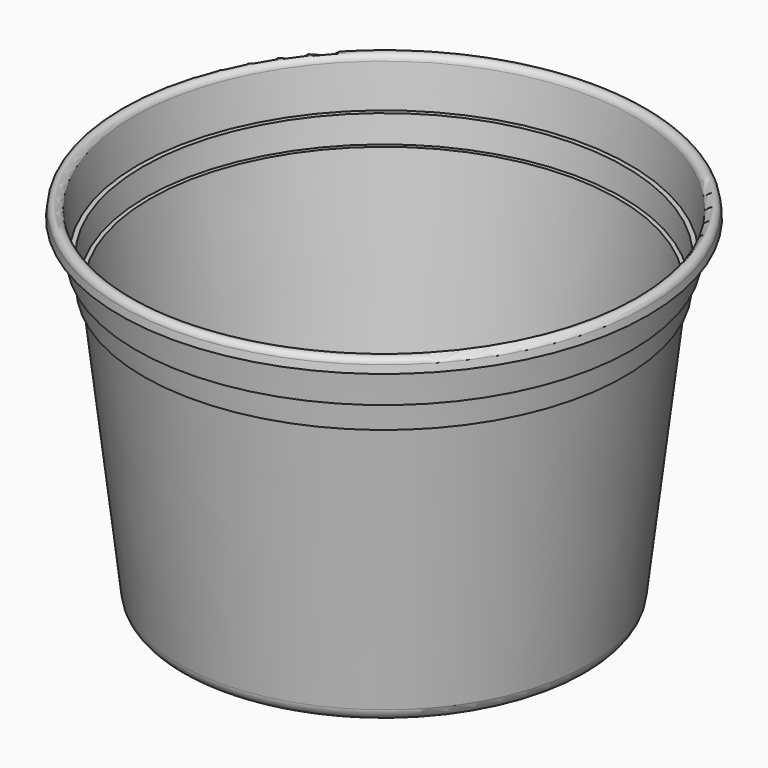
from build123d import *


with BuildPart() as f1:
    # F0 (on Front) → F1 (revolve)
    with BuildSketch(Plane.XZ):
        with BuildLine():
            Line((-41.397297, 0), (0, 0))
            Line((0, 0), (0, 0.5334))
            Line((0, 0.5334), (-41.397297, 0.5334))
            ThreePointArc((-41.397297, 0.5334), (-43.086103, 1.176156), (-43.920192, 2.77912))
            Line((-43.920192, 2.77912), (-50.656255, 60.5282))
            Line((-50.656255, 60.5282), (-51.545255, 60.5282))
            Line((-51.545255, 60.5282), (-52.200022, 66.1416))
            Line((-52.200022, 66.1416), (-53.216022, 66.1416))
            Line((-53.216022, 66.1416), (-54.248664, 74.994562))
            ThreePointArc((-54.248664, 74.994562), (-55.602881, 76.2), (-56.957099, 74.994562))
            Line((-56.957099, 74.994562), (-57.15, 73.340799))
            Line((-57.15, 73.340799), (-56.620192, 73.279))
            Line((-56.620192, 73.279), (-56.427291, 74.932763))
            ThreePointArc((-56.427291, 74.932763), (-55.602881, 75.6666), (-54.778472, 74.932763))
            Line((-54.778472, 74.932763), (-53.690821, 65.6082))
            Line((-53.690821, 65.6082), (-52.674821, 65.6082))
            Line((-52.674821, 65.6082), (-52.020053, 59.9948))
            Line((-52.020053, 59.9948), (-51.131053, 59.9948))
            Line((-51.131053, 59.9948), (-44.45, 2.717322))
            ThreePointArc((-44.45, 2.717322), (-43.440752, 0.777735), (-41.397297, 0))
        make_face()
    revolve(axis=Axis((0, 0, 27.968097), (0, 0, 1)))


solid = f1.part
